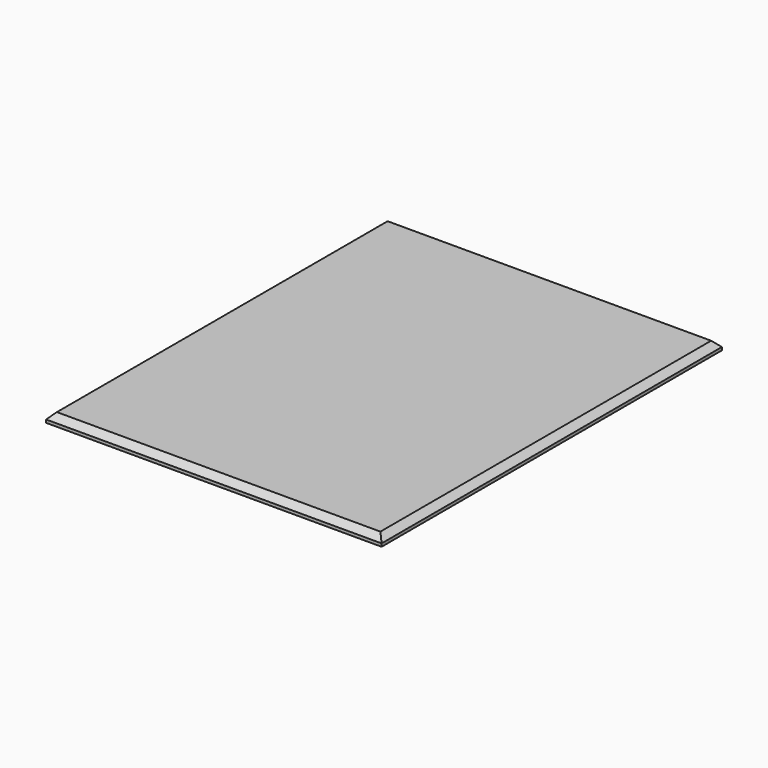
from build123d import *

# Parameters (mm, degrees)
F0_W     = 711.2
F0_H     = 901.7
F1_DEPTH = 19.05
F2_SIZE  = 12.7


with BuildPart() as f1:
    # F0 (on Top) → F1 (new body)
    with BuildSketch(Plane.XY):
        Rectangle(F0_W, F0_H)
    extrude(amount=F1_DEPTH)

    # F2
    f2_edges = [f1.edges().sort_by_distance(p)[0] for p in [
        (-355.6, 0, 19.05),
        (0, -450.85, 19.05),
        (355.6, 0, 19.05),
        (0, 450.85, 19.05),
    ]]
    chamfer(f2_edges, length=F2_SIZE)


solid = f1.part
